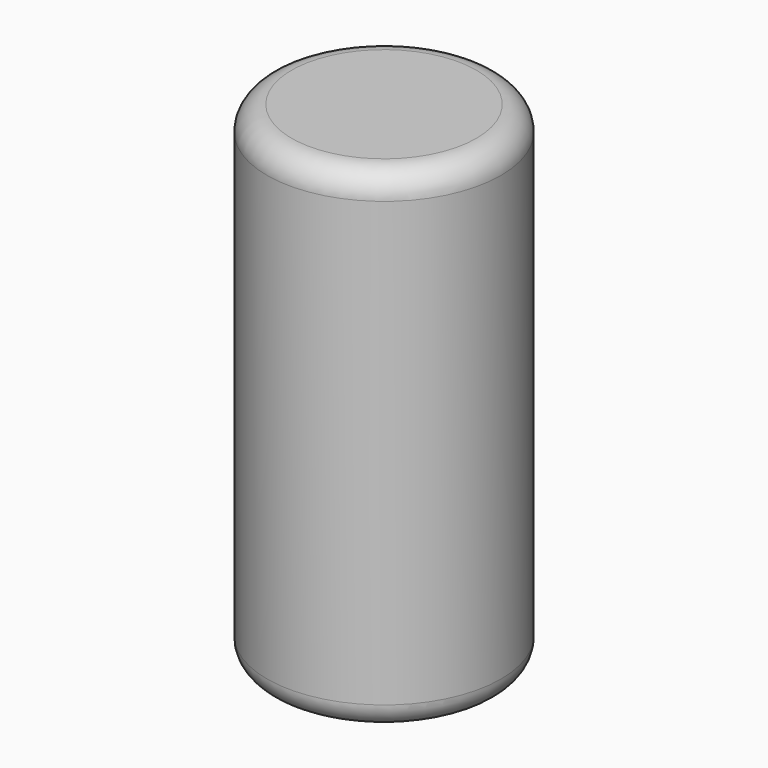
from build123d import *

# Parameters (mm, degrees)
CYLINDER_R     = 9.5
CYLINDER_DEPTH = 40
FILLET_R       = 2


with BuildPart() as part:
    # Cylinder → Cylinder (new body)
    with BuildSketch(Plane.XY):
        Circle(CYLINDER_R)
    extrude(amount=CYLINDER_DEPTH)

    # Fillet
    fillet_edges = [part.edges().sort_by_distance(p)[0] for p in [
        (-9.5, 0, 40),
        (-9.5, 0, 0),
    ]]
    fillet(fillet_edges, radius=FILLET_R)


solid = part.part
